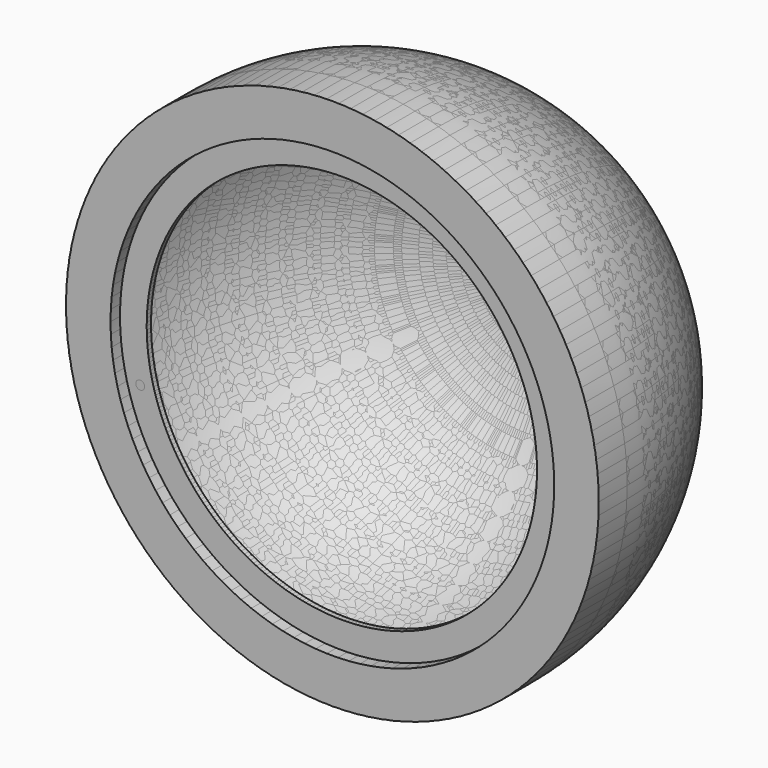
from build123d import *

# Parameters (mm, degrees)
F3_D     = 5
F3_DEPTH = 12
F4_COUNT = 6


with BuildPart() as f2:
    # F1 (on Right) → F2 (revolve)
    with BuildSketch(Plane.YZ):
        with BuildLine():
            ThreePointArc((170, 0), (126.066017, 106.066017), (20, 150))
            Line((20, 150), (20, 135))
            ThreePointArc((20, 135), (115.459415, 95.459415), (155, 0))
            Line((155, 0), (170, 0))
        make_face()
        Polygon((0, 150), (0, 125), (6.667336, 125), (6.667336, 110), (9.720446, 110), (9.720446, 135), (20, 135), (20, 150), align=None)
    revolve(axis=Axis((0, 56.553222, 0), (0, 1, 0)))

    # F3
    with Locations(Plane.XZ):
        with Locations((-83.085047, 83.085047)):
            Hole(F3_D / 2, depth=F3_DEPTH)


with BuildPart() as f4_1:
    # F4: instance of F2
    add(f2.part.rotate(Axis((0, 56.553222, 0), (0, 1, 0)), 1 * 360 / F4_COUNT))


with BuildPart() as f4_2:
    # F4: instance of F2
    add(f2.part.rotate(Axis((0, 56.553222, 0), (0, 1, 0)), 2 * 360 / F4_COUNT))


with BuildPart() as f4_3:
    # F4: instance of F2
    add(f2.part.rotate(Axis((0, 56.553222, 0), (0, 1, 0)), 3 * 360 / F4_COUNT))


with BuildPart() as f4_4:
    # F4: instance of F2
    add(f2.part.rotate(Axis((0, 56.553222, 0), (0, 1, 0)), 4 * 360 / F4_COUNT))


with BuildPart() as f4_5:
    # F4: instance of F2
    add(f2.part.rotate(Axis((0, 56.553222, 0), (0, 1, 0)), 5 * 360 / F4_COUNT))


solid = Compound([f2.part, f4_1.part, f4_2.part, f4_3.part, f4_4.part, f4_5.part])
